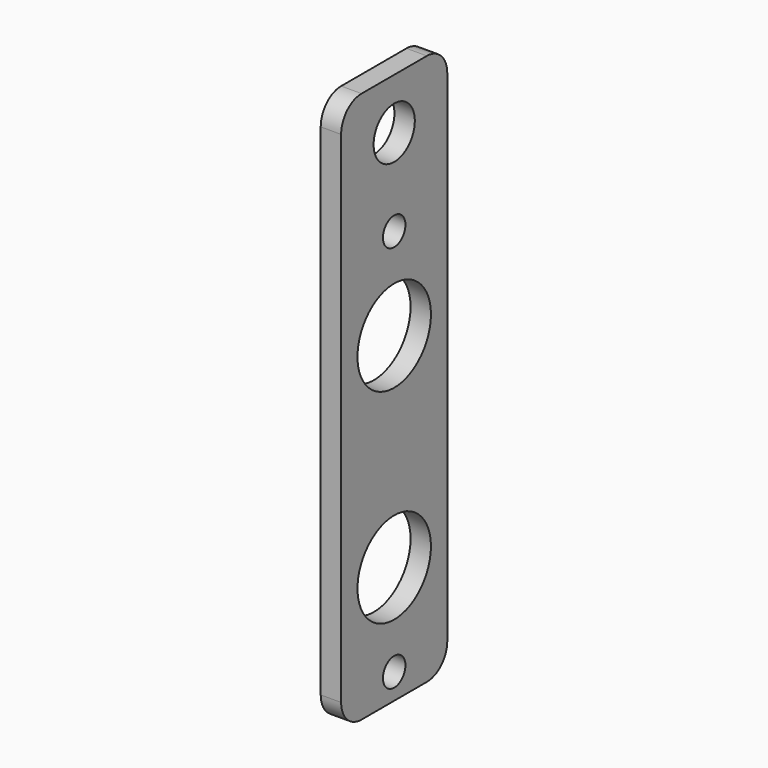
from build123d import *

# Parameters (mm, degrees)
F0_R     = 2.75
F0_R_2   = 9
F0_R_3   = 5.05
F1_DEPTH = 4


with BuildPart() as f1:
    # F0 (on Right) → F1 (new body)
    with BuildSketch(Plane.YZ):
        with BuildLine():
            Line((-8, -54), (8, -54))
            ThreePointArc((8, -54), (11.535534, -52.535534), (13, -49))
            Line((13, -49), (13, 49))
            ThreePointArc((13, 49), (11.535534, 52.535534), (8, 54))
            Line((8, 54), (-8, 54))
            ThreePointArc((-8, 54), (-11.535534, 52.535534), (-13, 49))
            Line((-13, 49), (-13, -49))
            ThreePointArc((-13, -49), (-11.535534, -52.535534), (-8, -54))
        make_face()
        with Locations((0, -49)):
            Circle(F0_R, mode=Mode.SUBTRACT)
        with Locations((0, -31)):
            Circle(F0_R_2, mode=Mode.SUBTRACT)
        with Locations((0, 9)):
            Circle(F0_R_2, mode=Mode.SUBTRACT)
        with Locations((0, 27)):
            Circle(F0_R, mode=Mode.SUBTRACT)
        with Locations((0, 44)):
            Circle(F0_R_3, mode=Mode.SUBTRACT)
    extrude(amount=F1_DEPTH)


solid = f1.part
